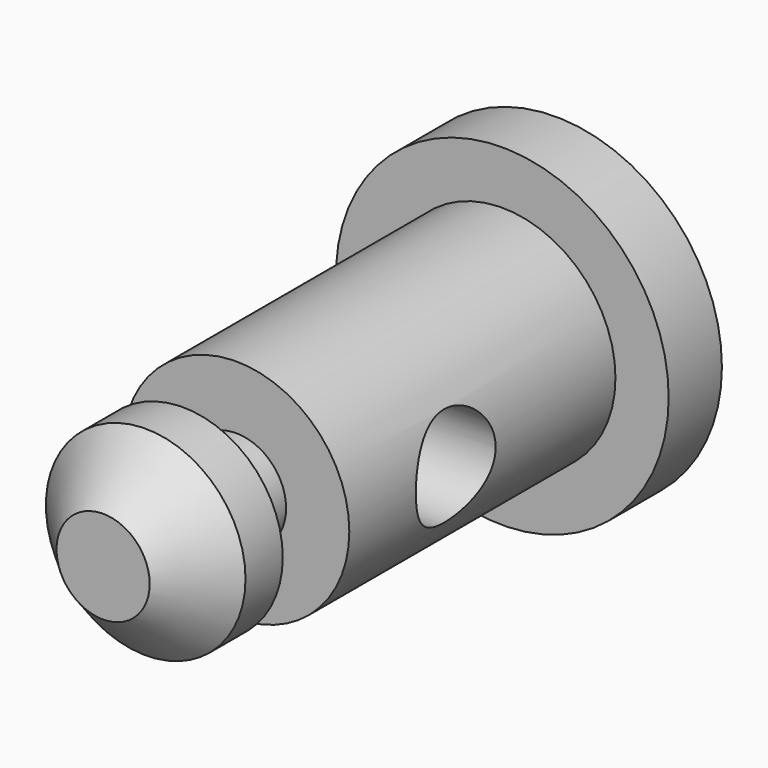
from build123d import *

# Parameters (mm, degrees)
F0_R          = 5
F1_DEPTH      = 2
F2_R          = 3.4
F3_DEPTH      = 15
F5_R          = 3.75
F5_R_2        = 1.5
F6_DEPTH      = 2
F7_R          = 1.5
F8_DEPTH      = 25
F8_DEPTH_BACK = 25
F9_SIZE       = 2
F10_R         = 3.5
F10_R_2       = 3
F11_DEPTH     = 5


with BuildPart() as f1:
    # F0 (on Front) → F1 (new body)
    with BuildSketch(Plane.XZ):
        Circle(F0_R)
    extrude(amount=F1_DEPTH)

    # F2 (on face) → F3 (join)
    with BuildSketch(Plane.XZ.offset(2)):
        Circle(F2_R)
    extrude(amount=F3_DEPTH)

    # F5 (on offset) → F6 (cut)
    with BuildSketch(Plane.XZ.offset(12)):
        Circle(F5_R)
        Circle(F5_R_2, mode=Mode.SUBTRACT)
    extrude(amount=F6_DEPTH, mode=Mode.SUBTRACT)

    # F7 (on Right) → F8 (cut, two sides)
    with BuildSketch(Plane.YZ) as f8_sk:
        with Locations((-8, 0)):
            Circle(F7_R)
    extrude(amount=F8_DEPTH, mode=Mode.SUBTRACT)
    extrude(f8_sk.sketch, amount=-F8_DEPTH_BACK, mode=Mode.SUBTRACT)

    # F9
    f9_edges = [f1.edges().sort_by_distance(p)[0] for p in [
        (-3.4, -17, 0),
    ]]
    chamfer(f9_edges, length=F9_SIZE)

    # F10 (on face) → F11 (cut)
    with BuildSketch(Plane.XZ.offset(17)):
        Circle(F10_R)
        Circle(F10_R_2, mode=Mode.SUBTRACT)
    extrude(amount=-F11_DEPTH, mode=Mode.SUBTRACT)


solid = f1.part
